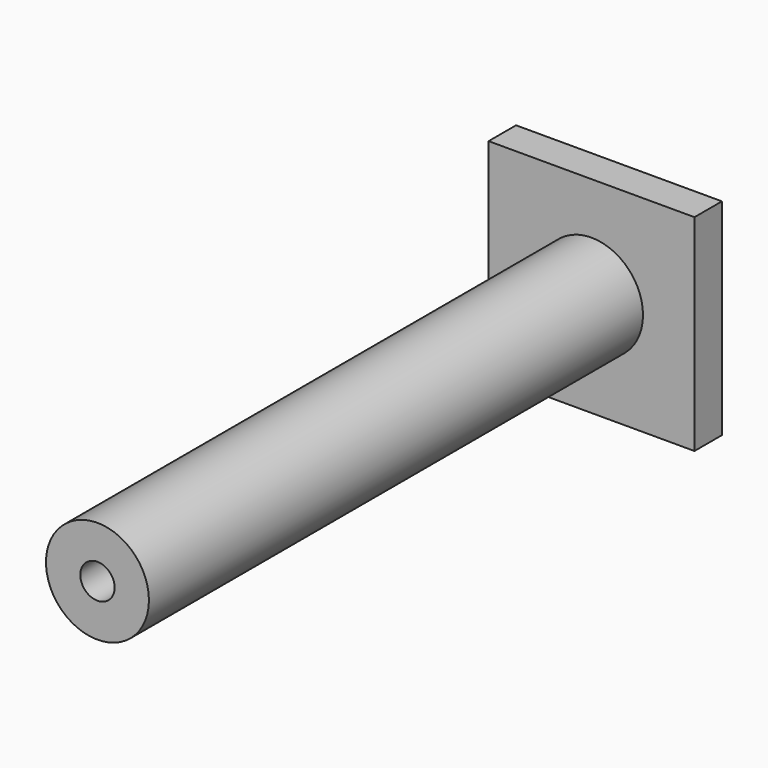
from build123d import *

# Parameters (mm, degrees)
F0_W     = 152.4
F0_H     = 152.4
F1_DEPTH = 25.4
F2_R     = 38.1
F3_DEPTH = 457.2
F4_R     = 12.7
F5_DEPTH = 482.6


with BuildPart() as f1:
    # F0 (on Front) → F1 (new body)
    with BuildSketch(Plane.XZ):
        with Locations((76.2, 76.2)):
            Rectangle(F0_W, F0_H)
    extrude(amount=F1_DEPTH)

    # F2 (on face) → F3 (join)
    with BuildSketch(Plane.XZ.offset(25.4)):
        with Locations((76.2, 76.2)):
            Circle(F2_R)
    extrude(amount=F3_DEPTH)

    # F4 (on face) → F5 (cut, through all)
    with BuildSketch(Plane(origin=(0, 0, 0), x_dir=(-1, 0, 0), z_dir=(0, 1, 0))):
        with Locations((-76.2, 76.2)):
            Circle(F4_R)
    extrude(amount=-F5_DEPTH, mode=Mode.SUBTRACT)


solid = f1.part
